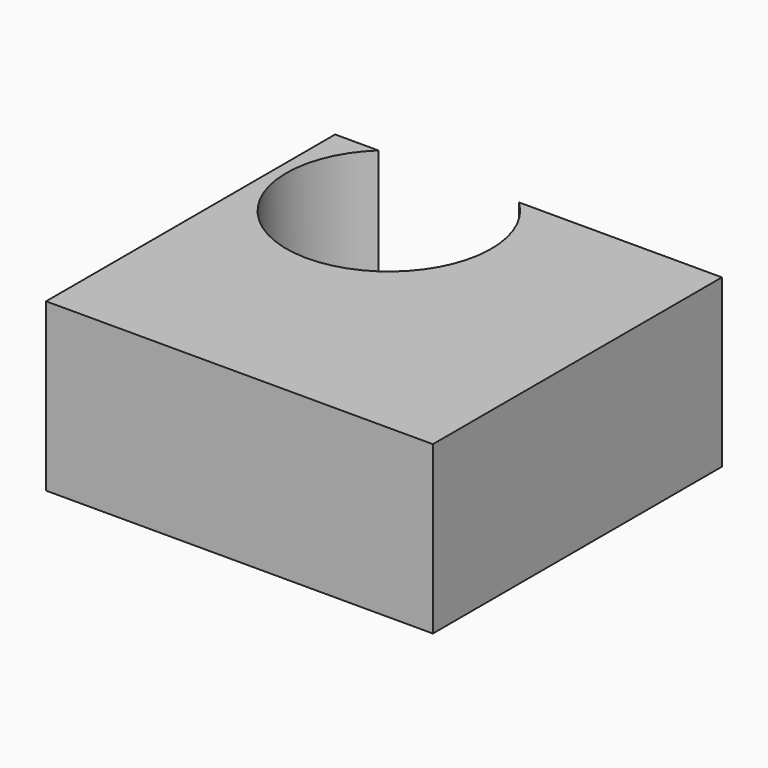
from build123d import *

# Parameters (mm, degrees)
F0_W     = 58.9296072721
F0_H     = 55.0467334688
F1_DEPTH = 25.4
F3_DEPTH = 34.68607


with BuildPart() as f1:
    # F0 (on Top) → F1 (new body)
    with BuildSketch(Plane.XY):
        with Locations((-29.4648036361, 3.4594554454)):
            Rectangle(F0_W, F0_H)
    extrude(amount=F1_DEPTH)

    # F2 (on face) → F3 (cut)
    with BuildSketch(Plane.XY.offset(25.4)):
        with BuildLine():
            ThreePointArc((-52.1536211312, 8.0381335624), (-35.3203383975, 5.3039070161), (-26.0133259195, 19.5942856371))
            ThreePointArc((-26.0133259195, 19.5942856371), (-27.29800697, 25.7986930506), (-30.9407918835, 30.9828221798))
            Line((-30.9407918835, 30.9828221798), (-34.4491236613, 30.9828221798))
            ThreePointArc((-34.4491236613, 30.9828221798), (-44.147413461, 20.163297011), (-52.1536211312, 8.0381335624))
        make_face()
        with BuildLine():
            ThreePointArc((-52.334921143, 30.9828221798), (-57.2618993675, 19.470830523), (-52.1536211312, 8.0381335624))
            ThreePointArc((-52.1536211312, 8.0381335624), (-44.147413461, 20.163297011), (-34.4491236613, 30.9828221798))
            Line((-34.4491236613, 30.9828221798), (-52.334921143, 30.9828221798))
        make_face()
        with BuildLine():
            ThreePointArc((-34.4491236613, 30.9828221798), (-33.6460547954, 31.7472714752), (-32.834456283, 32.5026589143))
            ThreePointArc((-32.834456283, 32.5026589143), (-42.8519269969, 35.1715764522), (-52.334921143, 30.9828221798))
            Line((-52.334921143, 30.9828221798), (-34.4491236613, 30.9828221798))
        make_face()
    extrude(amount=-F3_DEPTH, mode=Mode.SUBTRACT)


solid = f1.part
